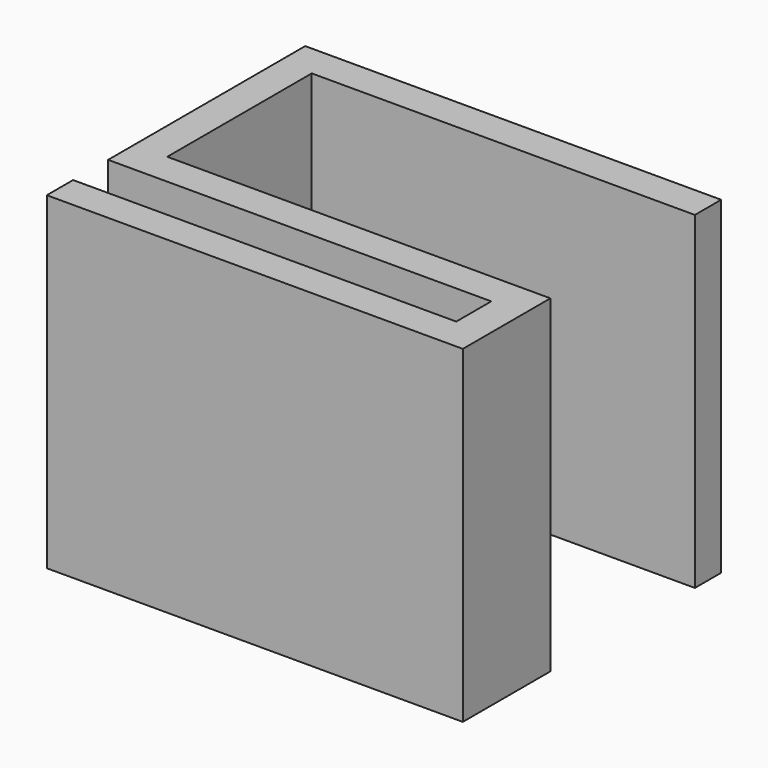
from build123d import *

# Parameters (mm, degrees)
PAD_DEPTH = 30


with BuildPart() as part:
    # Sketch → Pad (new body)
    with BuildSketch(Plane.XY):
        Polygon((38, 29.5), (0, 29.5), (0, 7), (35, 7), (35, 3), (0, 3), (0, 0), (38, 0), (38, 10), (3, 10), (3, 26.5), (38, 26.5), align=None)
    extrude(amount=PAD_DEPTH)


solid = part.part
